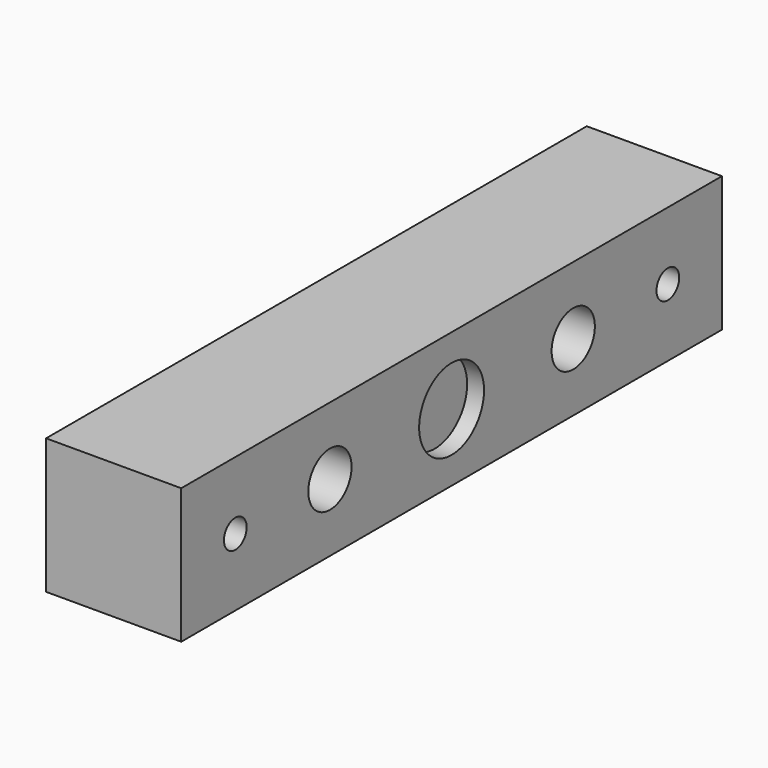
from build123d import *

# Parameters (mm, degrees)
F0_W     = 20
F0_H     = 100
F1_DEPTH = 20
F2_R     = 6
F3_DEPTH = 2.5
F4_R     = 4
F5_DEPTH = 10
F7_DEPTH = 25


with BuildPart() as f1:
    # F0 (on Top) → F1 (new body)
    with BuildSketch(Plane.XY):
        Rectangle(F0_W, F0_H)
    extrude(amount=F1_DEPTH)

    # F2 (on face) → F3 (cut)
    with BuildSketch(Plane.YZ.offset(10)):
        with Locations((0, 10)):
            Circle(F2_R)
    extrude(amount=-F3_DEPTH, mode=Mode.SUBTRACT)

    # F4 (on face) → F5 (cut)
    with BuildSketch(Plane.YZ.offset(10)):
        with Locations((22.5, 10)):
            Circle(F4_R)
        with Locations((-22.5, 10)):
            Circle(F4_R)
    extrude(amount=-F5_DEPTH, mode=Mode.SUBTRACT)

    # F6 (on face) → F7 (cut)
    with BuildSketch(Plane.YZ.offset(10)):
        with BuildLine():
            ThreePointArc((-37.9, 10), (-40, 12.1), (-42.1, 10))
            Line((-42.1, 10), (-37.9, 10))
        make_face()
        with BuildLine():
            Line((-37.9, 10), (-42.1, 10))
            ThreePointArc((-42.1, 10), (-40, 7.9), (-37.9, 10))
        make_face()
        with BuildLine():
            ThreePointArc((37.9, 10), (40, 7.9), (42.1, 10))
            Line((42.1, 10), (37.9, 10))
        make_face()
        with BuildLine():
            Line((37.9, 10), (42.1, 10))
            ThreePointArc((42.1, 10), (40, 12.1), (37.9, 10))
        make_face()
    extrude(amount=-F7_DEPTH, mode=Mode.SUBTRACT)


solid = f1.part
